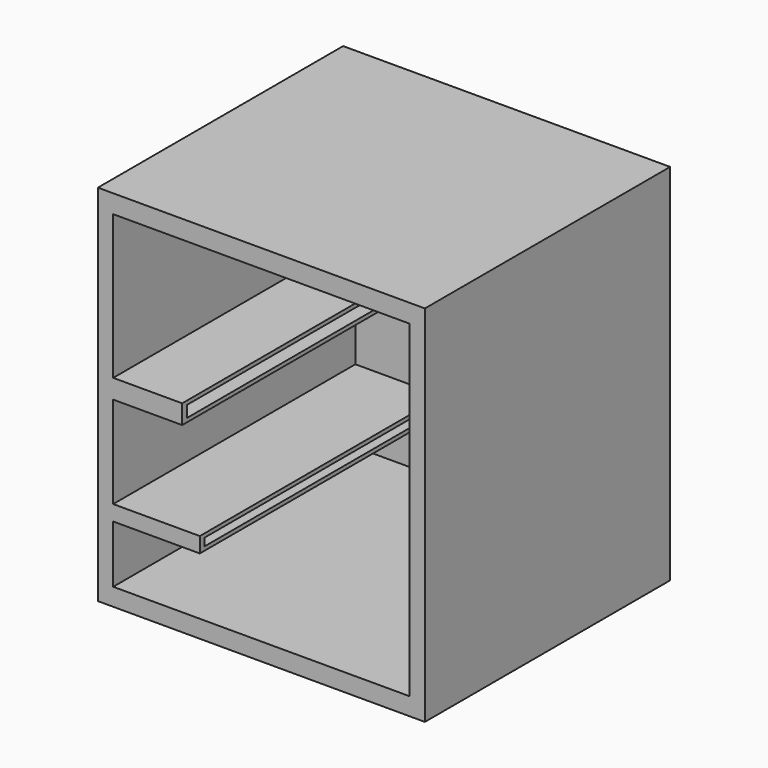
from build123d import *

# Parameters (mm, degrees)
F0_W      = 4267
F0_H      = 4000
F1_DEPTH  = 4750
F2_W      = 3867
F2_H      = 4280
F3_DEPTH  = 3950
F4_W      = 3950
F4_H      = 200
F5_DEPTH  = 1130
F6_W      = 3950
F6_H      = 250
F7_DEPTH  = 900
F8_W      = 3790
F8_H      = 150
F9_DEPTH  = 930
F10_W     = 3790
F10_H     = 100
F11_DEPTH = 1130


with BuildPart() as f1:
    # F0 (on Top) → F1 (new body)
    with BuildSketch(Plane.XY):
        with Locations((2133.5, 2000)):
            Rectangle(F0_W, F0_H)
    extrude(amount=F1_DEPTH)

    # F2 (on face) → F3 (cut)
    with BuildSketch(Plane.XZ):
        with Locations((2133.5, 2370)):
            Rectangle(F2_W, F2_H)
    extrude(amount=-F3_DEPTH, mode=Mode.SUBTRACT)

    # F4 (on face) → F5 (join)
    with BuildSketch(Plane.YZ.offset(200)):
        with Locations((1975, 1080)):
            Rectangle(F4_W, F4_H)
    extrude(amount=F5_DEPTH)

    # F6 (on face) → F7 (join)
    with BuildSketch(Plane.YZ.offset(200)):
        with Locations((1975, 2505)):
            Rectangle(F6_W, F6_H)
    extrude(amount=F7_DEPTH)

    # F8 (on face) → F9 (cut)
    with BuildSketch(Plane.YZ.offset(1100)):
        with Locations((1975, 2505)):
            Rectangle(F8_W, F8_H)
    extrude(amount=-F9_DEPTH, mode=Mode.SUBTRACT)

    # F10 (on face) → F11 (cut)
    with BuildSketch(Plane.YZ.offset(1330)):
        with Locations((1975, 1080)):
            Rectangle(F10_W, F10_H)
    extrude(amount=-F11_DEPTH, mode=Mode.SUBTRACT)


solid = f1.part
